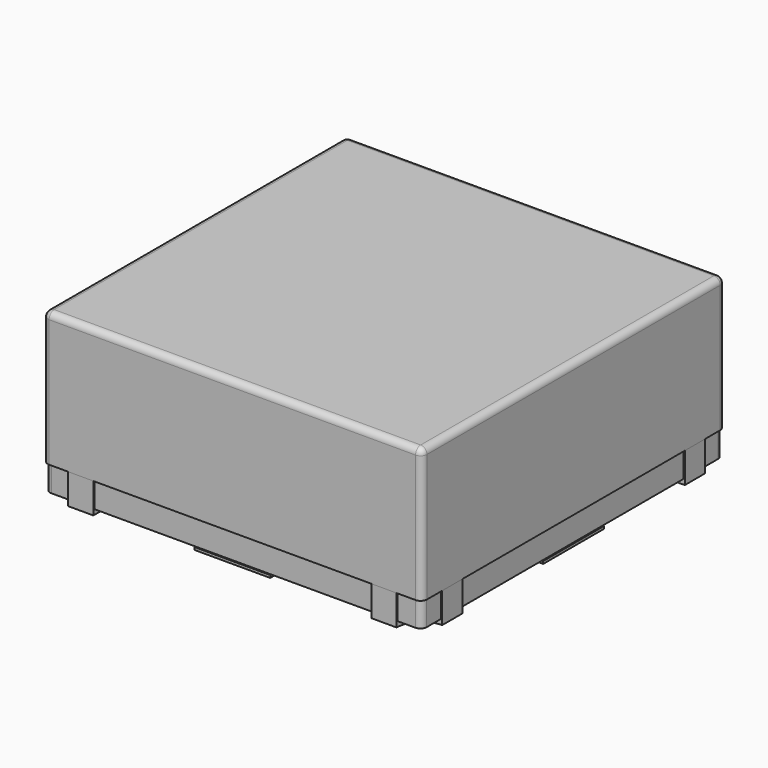
from build123d import *

# Parameters (mm, degrees)
PAD003_DEPTH = 0.12
PAD_DEPTH    = 0.12
PAD001_DEPTH = 0.12
PAD002_DEPTH = 0.12
SKETCH001_W  = 1.49
SKETCH001_H  = 1.49
PAD004_DEPTH = 0.11
FILLET001_R  = 0.025
SKETCH002_W  = 1.5
SKETCH002_H  = 1.5
PAD005_DEPTH = 0.53
FILLET_R     = 0.025
PAD006_DEPTH = 0.01
PAD007_DEPTH = 0.01
PAD008_DEPTH = 0.01
PAD009_DEPTH = 0.01
PAD010_DEPTH = 0.01


with BuildPart() as body:
    # Sketch → Pad003 (new body)
    with BuildSketch(Plane.XY):
        with BuildLine():
            ThreePointArc((-0.75, 0.65), (-0.679289, 0.679289), (-0.65, 0.75))
            Line((-0.65, 0.75), (-0.55, 0.75))
            Line((-0.55, 0.75), (-0.55, 0.72))
            ThreePointArc((-0.55, 0.72), (-0.544142, 0.705858), (-0.53, 0.7))
            Line((-0.53, 0.7), (-0.24, 0.7))
            ThreePointArc((-0.2, 0.66), (-0.211716, 0.688284), (-0.24, 0.7))
            Line((-0.2, 0.66), (-0.2, 0.24))
            ThreePointArc((-0.24, 0.2), (-0.211716, 0.211716), (-0.2, 0.24))
            Line((-0.24, 0.2), (-0.66, 0.2))
            ThreePointArc((-0.7, 0.24), (-0.688284, 0.211716), (-0.66, 0.2))
            Line((-0.7, 0.24), (-0.7, 0.526907))
            ThreePointArc((-0.7, 0.526907), (-0.706764, 0.543236), (-0.723093, 0.55))
            Line((-0.723093, 0.55), (-0.75, 0.55))
            Line((-0.75, 0.65), (-0.75, 0.55))
        make_face()
    extrude(amount=PAD003_DEPTH)


with BuildPart() as body001:
    # MirroredSketch → Pad (new body)
    with BuildSketch(Plane.XY):
        with BuildLine():
            ThreePointArc((0.75, -0.65), (0.679289, -0.679289), (0.65, -0.75))
            Line((0.65, -0.75), (0.55, -0.75))
            Line((0.55, -0.75), (0.55, -0.72))
            ThreePointArc((0.55, -0.72), (0.544142, -0.705858), (0.53, -0.7))
            Line((0.53, -0.7), (0.24, -0.7))
            ThreePointArc((0.2, -0.66), (0.211716, -0.688284), (0.24, -0.7))
            Line((0.2, -0.66), (0.2, -0.24))
            ThreePointArc((0.24, -0.2), (0.211716, -0.211716), (0.2, -0.24))
            Line((0.24, -0.2), (0.66, -0.2))
            ThreePointArc((0.7, -0.24), (0.688284, -0.211716), (0.66, -0.2))
            Line((0.7, -0.24), (0.7, -0.526907))
            ThreePointArc((0.7, -0.526907), (0.706764, -0.543236), (0.723093, -0.55))
            Line((0.723093, -0.55), (0.75, -0.55))
            Line((0.75, -0.65), (0.75, -0.55))
        make_face()
    extrude(amount=PAD_DEPTH)


with BuildPart() as body002:
    # MirroredSketch001 → Pad001 (new body)
    with BuildSketch(Plane.XY):
        with BuildLine():
            ThreePointArc((-0.65, -0.75), (-0.679289, -0.679289), (-0.75, -0.65))
            Line((-0.75, -0.65), (-0.75, -0.55))
            Line((-0.723093, -0.55), (-0.75, -0.55))
            ThreePointArc((-0.723093, -0.55), (-0.706764, -0.543236), (-0.7, -0.526907))
            Line((-0.7, -0.24), (-0.7, -0.526907))
            ThreePointArc((-0.66, -0.2), (-0.688284, -0.211716), (-0.7, -0.24))
            Line((-0.24, -0.2), (-0.66, -0.2))
            ThreePointArc((-0.2, -0.24), (-0.211716, -0.211716), (-0.24, -0.2))
            Line((-0.2, -0.66), (-0.2, -0.24))
            ThreePointArc((-0.24, -0.7), (-0.211716, -0.688284), (-0.2, -0.66))
            Line((-0.53, -0.7), (-0.24, -0.7))
            ThreePointArc((-0.53, -0.7), (-0.544142, -0.705858), (-0.55, -0.72))
            Line((-0.55, -0.75), (-0.55, -0.72))
            Line((-0.65, -0.75), (-0.55, -0.75))
        make_face()
    extrude(amount=PAD001_DEPTH)


with BuildPart() as body003:
    # MirroredSketch002 → Pad002 (new body)
    with BuildSketch(Plane.XY):
        with BuildLine():
            ThreePointArc((0.65, 0.75), (0.679289, 0.679289), (0.75, 0.65))
            Line((0.75, 0.65), (0.75, 0.55))
            Line((0.723093, 0.55), (0.75, 0.55))
            ThreePointArc((0.723093, 0.55), (0.706764, 0.543236), (0.7, 0.526907))
            Line((0.7, 0.24), (0.7, 0.526907))
            ThreePointArc((0.66, 0.2), (0.688284, 0.211716), (0.7, 0.24))
            Line((0.24, 0.2), (0.66, 0.2))
            ThreePointArc((0.2, 0.24), (0.211716, 0.211716), (0.24, 0.2))
            Line((0.2, 0.66), (0.2, 0.24))
            ThreePointArc((0.24, 0.7), (0.211716, 0.688284), (0.2, 0.66))
            Line((0.53, 0.7), (0.24, 0.7))
            ThreePointArc((0.53, 0.7), (0.544142, 0.705858), (0.55, 0.72))
            Line((0.55, 0.75), (0.55, 0.72))
            Line((0.65, 0.75), (0.55, 0.75))
        make_face()
    extrude(amount=PAD002_DEPTH)


with BuildPart() as pcb:
    # Sketch001 → Pad004 (new body)
    with BuildSketch(Plane.XY.offset(0.02)):
        Rectangle(SKETCH001_W, SKETCH001_H)
    extrude(amount=PAD004_DEPTH)

    # Fillet001
    fillet001_edges = [pcb.edges().sort_by_distance(p)[0] for p in [
        (0.745, 0.745, 0.075),
        (0.745, -0.745, 0.075),
        (-0.745, 0.745, 0.075),
        (-0.745, -0.745, 0.075),
    ]]
    fillet(fillet001_edges, radius=FILLET001_R)


with BuildPart() as lens:
    # Sketch002 → Pad005 (new body)
    with BuildSketch(Plane.XY.offset(0.12)):
        Rectangle(SKETCH002_W, SKETCH002_H)
    extrude(amount=PAD005_DEPTH)

    # Fillet
    fillet_edges = [lens.edges().sort_by_distance(p)[0] for p in [
        (-0.75, -0.75, 0.385),
        (0, -0.75, 0.65),
        (-0.75, 0, 0.65),
        (-0.75, 0.75, 0.385),
        (0.75, -0.75, 0.385),
        (0.75, 0, 0.65),
        (0, 0.75, 0.65),
        (0.75, 0.75, 0.385),
    ]]
    fillet(fillet_edges, radius=FILLET_R)


with BuildPart() as silk_screen:
    # Sketch003 → Pad006 (new body)
    with BuildSketch(Plane.XY.offset(0.01)):
        Polygon((-0.15, 0.75), (-0.15, 0.15), (-0.75, 0.15), (-0.75, -0.15), (-0.15, -0.15), (-0.15, -0.75), (0.15, -0.75), (0.15, -0.15), (0.75, -0.15), (0.75, 0.15), (0.15, 0.15), (0.15, 0.75), align=None)
        Polygon((0.45, -0.1), (0.536603, 0.05), (0.363397, 0.05), align=None, mode=Mode.SUBTRACT)
    extrude(amount=PAD006_DEPTH)


with BuildPart() as body007:
    # Sketch004 → Pad007 (new body)
    with BuildSketch(Plane.XY.offset(0.13)):
        with BuildLine():
            ThreePointArc((-0.745, 0.645), (-0.674289, 0.674289), (-0.645, 0.745))
            Line((-0.645, 0.745), (-0.485, 0.745))
            ThreePointArc((-0.445, 0.705), (-0.456716, 0.733284), (-0.485, 0.745))
            Line((-0.445, 0.705), (-0.445, 0.485))
            ThreePointArc((-0.445, 0.485), (-0.433284, 0.456716), (-0.405, 0.445))
            Line((-0.405, 0.445), (-0.125, 0.445))
            ThreePointArc((-0.045, 0.365), (-0.068431, 0.421569), (-0.125, 0.445))
            Line((-0.045, 0.365), (-0.045, -0.175))
            ThreePointArc((-0.125, -0.255), (-0.068431, -0.231569), (-0.045, -0.175))
            Line((-0.125, -0.255), (-0.605, -0.255))
            ThreePointArc((-0.645, -0.215), (-0.633284, -0.243284), (-0.605, -0.255))
            Line((-0.645, -0.215), (-0.645, -0.09))
            ThreePointArc((-0.645, -0.09), (-0.656716, -0.061716), (-0.685, -0.05))
            Line((-0.685, -0.05), (-0.745, -0.05))
            Line((-0.745, -0.05), (-0.745, 0.05))
            Line((-0.745, 0.05), (-0.685, 0.05))
            ThreePointArc((-0.685, 0.05), (-0.656716, 0.061716), (-0.645, 0.09))
            Line((-0.645, 0.09), (-0.645, 0.505))
            ThreePointArc((-0.645, 0.505), (-0.656716, 0.533284), (-0.685, 0.545))
            Line((-0.685, 0.545), (-0.745, 0.545))
            Line((-0.745, 0.545), (-0.745, 0.645))
        make_face()
    extrude(amount=PAD007_DEPTH)


with BuildPart() as body008:
    # Sketch005 → Pad008 (new body)
    with BuildSketch(Plane.XY.offset(0.13)):
        with BuildLine():
            ThreePointArc((0.645, 0.745), (0.674289, 0.674289), (0.745, 0.645))
            Line((0.745, 0.565), (0.745, 0.645))
            Line((0.525, 0.565), (0.745, 0.565))
            ThreePointArc((0.525, 0.565), (0.468431, 0.541569), (0.445, 0.485))
            Line((0.445, 0.375), (0.445, 0.485))
            ThreePointArc((0.405, 0.335), (0.433284, 0.346716), (0.445, 0.375))
            Line((0.085, 0.335), (0.405, 0.335))
            ThreePointArc((0.045, 0.375), (0.056716, 0.346716), (0.085, 0.335))
            Line((0.045, 0.385), (0.045, 0.375))
            ThreePointArc((0.045, 0.385), (0.001066, 0.491066), (-0.105, 0.535))
            Line((-0.215, 0.535), (-0.105, 0.535))
            ThreePointArc((-0.255, 0.575), (-0.243284, 0.546716), (-0.215, 0.535))
            Line((-0.255, 0.625), (-0.255, 0.575))
            ThreePointArc((-0.215, 0.665), (-0.243284, 0.653284), (-0.255, 0.625))
            Line((0.405, 0.665), (-0.215, 0.665))
            ThreePointArc((0.405, 0.665), (0.433284, 0.676716), (0.445, 0.705))
            Line((0.445, 0.745), (0.445, 0.705))
            Line((0.645, 0.745), (0.445, 0.745))
        make_face()
    extrude(amount=PAD008_DEPTH)


with BuildPart() as body009:
    # Sketch006 → Pad009 (new body)
    with BuildSketch(Plane.XY.offset(0.13)):
        with BuildLine():
            ThreePointArc((0.745, -0.645), (0.674289, -0.674289), (0.645, -0.745))
            Line((0.445, -0.745), (0.645, -0.745))
            Line((0.445, -0.635), (0.445, -0.745))
            ThreePointArc((0.445, -0.635), (0.433284, -0.606716), (0.405, -0.595))
            Line((-0.215, -0.595), (0.405, -0.595))
            ThreePointArc((-0.255, -0.555), (-0.243284, -0.583284), (-0.215, -0.595))
            Line((-0.255, -0.385), (-0.255, -0.555))
            ThreePointArc((-0.215, -0.345), (-0.243284, -0.356716), (-0.255, -0.385))
            Line((-0.105, -0.345), (-0.215, -0.345))
            ThreePointArc((-0.105, -0.345), (0.001066, -0.301066), (0.045, -0.195))
            Line((0.045, 0.205), (0.045, -0.195))
            ThreePointArc((0.085, 0.245), (0.056716, 0.233284), (0.045, 0.205))
            Line((0.505, 0.245), (0.085, 0.245))
            ThreePointArc((0.545, 0.205), (0.533284, 0.233284), (0.505, 0.245))
            Line((0.545, 0.09), (0.545, 0.205))
            ThreePointArc((0.545, 0.09), (0.556716, 0.061716), (0.585, 0.05))
            Line((0.745, 0.05), (0.585, 0.05))
            Line((0.745, -0.05), (0.745, 0.05))
            Line((0.585, -0.05), (0.745, -0.05))
            ThreePointArc((0.585, -0.05), (0.556716, -0.061716), (0.545, -0.09))
            Line((0.545, -0.405), (0.545, -0.09))
            ThreePointArc((0.545, -0.405), (0.556716, -0.433284), (0.585, -0.445))
            Line((0.745, -0.445), (0.585, -0.445))
            Line((0.745, -0.645), (0.745, -0.445))
        make_face()
    extrude(amount=PAD009_DEPTH)


with BuildPart() as body010:
    # Sketch007 → Pad010 (new body)
    with BuildSketch(Plane.XY.offset(0.13)):
        with BuildLine():
            ThreePointArc((-0.645, -0.745), (-0.674289, -0.674289), (-0.745, -0.645))
            Line((-0.745, -0.645), (-0.745, -0.445))
            Line((-0.745, -0.445), (-0.685, -0.445))
            ThreePointArc((-0.685, -0.445), (-0.656716, -0.433284), (-0.645, -0.405))
            Line((-0.645, -0.405), (-0.645, -0.385))
            ThreePointArc((-0.605, -0.345), (-0.633284, -0.356716), (-0.645, -0.385))
            Line((-0.605, -0.345), (-0.385, -0.345))
            ThreePointArc((-0.345, -0.385), (-0.356716, -0.356716), (-0.385, -0.345))
            Line((-0.345, -0.385), (-0.345, -0.555))
            ThreePointArc((-0.385, -0.595), (-0.356716, -0.583284), (-0.345, -0.555))
            Line((-0.385, -0.595), (-0.455, -0.595))
            ThreePointArc((-0.455, -0.595), (-0.483284, -0.606716), (-0.495, -0.635))
            Line((-0.495, -0.635), (-0.495, -0.745))
            Line((-0.495, -0.745), (-0.645, -0.745))
        make_face()
    extrude(amount=PAD010_DEPTH)


solid = Compound([body.part, body001.part, body002.part, body003.part, pcb.part, lens.part, silk_screen.part, body007.part, body008.part, body009.part, body010.part])
